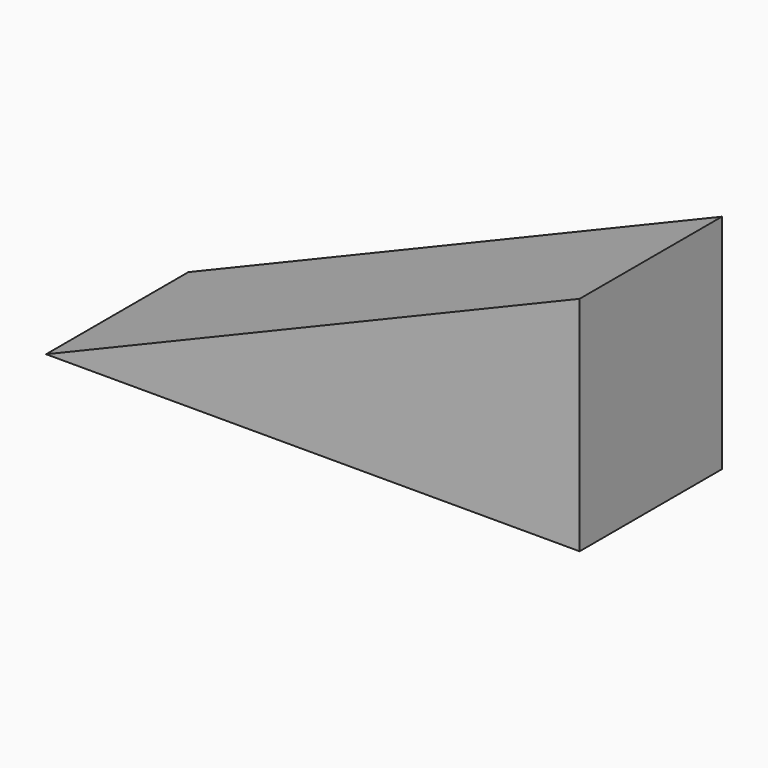
from build123d import *

# Parameters (mm, degrees)
F0_W     = 120
F0_H     = 40
F1_DEPTH = 50
F3_DEPTH = 40.001


with BuildPart() as f1:
    # F0 (on Top) → F1 (new body)
    with BuildSketch(Plane.XY):
        with Locations((0.122527, 27.411443)):
            Rectangle(F0_W, F0_H)
    extrude(amount=F1_DEPTH)

    # F2 (on face) → F3 (cut, through all)
    with BuildSketch(Plane.XZ.offset(-7.411443)):
        Polygon((-59.877473, 50), (-59.877473, 0), (60.122527, 50), align=None)
    extrude(amount=-F3_DEPTH, mode=Mode.SUBTRACT)


solid = f1.part
